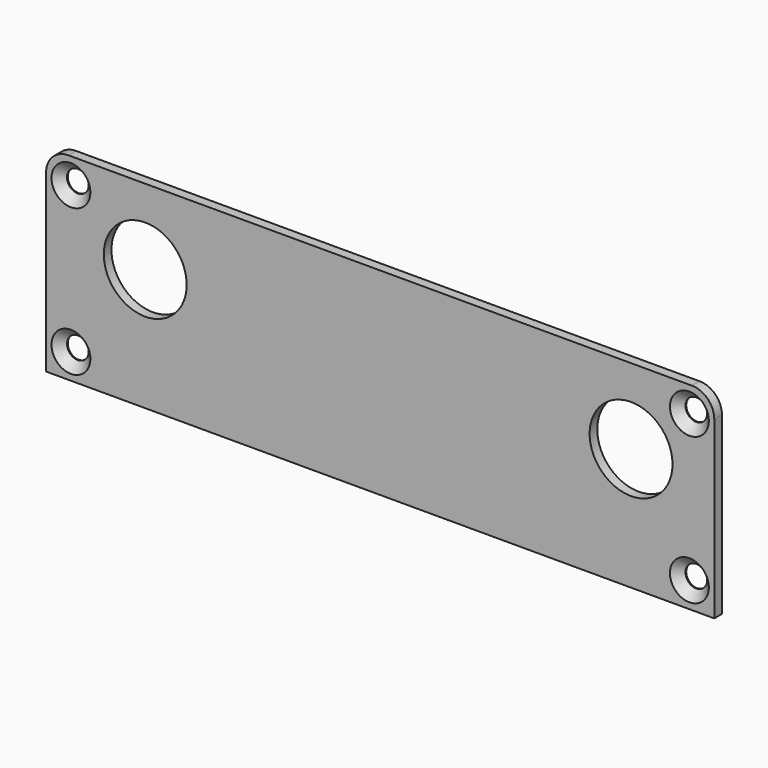
from build123d import *

# Parameters (mm, degrees)
SKETCH_W            = 104.8
SKETCH_H            = 31
PAD_DEPTH           = 1.5
HOLE_D              = 3.4
HOLE_DEPTH          = 25
HOLE_CSINK_D        = 6.1
HOLE_CSINK_ANGLE    = 90
FILLET_R            = 3.5
SKETCH002_R         = 6.5
POCKET_DEPTH        = 1.501
LINEARPATTERN_COUNT = 2
LINEARPATTERN_PITCH = 76.2


with BuildPart() as part:
    # Sketch → Pad (new body)
    with BuildSketch(Plane.XZ):
        Rectangle(SKETCH_W, SKETCH_H)
    extrude(amount=PAD_DEPTH)

    # Hole
    with Locations(Plane.XZ.offset(1.5)):
        with Locations((-48.5, 11.5), (-48.5, -11.5), (48.5, -11.5), (48.5, 11.5)):
            CounterSinkHole(HOLE_D / 2, HOLE_CSINK_D / 2, depth=HOLE_DEPTH, counter_sink_angle=HOLE_CSINK_ANGLE)

    # Fillet
    fillet_edges = [part.edges().sort_by_distance(p)[0] for p in [
        (-52.4, -0.75, 15.5),
        (52.4, -0.75, 15.5),
    ]]
    fillet(fillet_edges, radius=FILLET_R)

    # Sketch002 (on Face5 of Fillet) → Pocket (cut, through all)
    with BuildSketch(Plane.XZ.offset(1.5)):
        with Locations((-36.85, 3.64)):
            Circle(SKETCH002_R)
    pocket = extrude(amount=-POCKET_DEPTH, mode=Mode.SUBTRACT)

    # LinearPattern: Pocket ×2
    with Locations(*[(i * LINEARPATTERN_PITCH, 0, 0) for i in range(1, LINEARPATTERN_COUNT)]):
        add(pocket, mode=Mode.SUBTRACT)


solid = part.part
